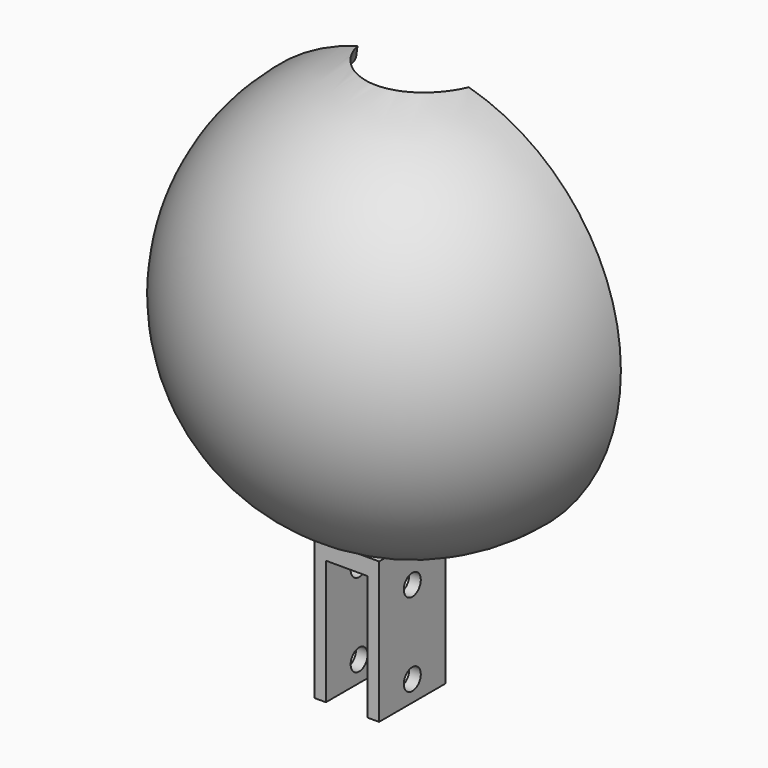
from build123d import *

# Parameters (mm, degrees)
CYLINDER_R               = 14
CYLINDER_DEPTH           = 40
CYLINDER_PLACEMENT_ANGLE = 330
REVOLUTION_ANGLE         = 180
FILLET_R                 = 1
PAD_DEPTH                = 20
SKETCH002_R              = 2.55
POCKET_DEPTH             = 20


with BuildPart() as cylinder:
    # Cylinder → Cylinder (new body)
    with BuildSketch(Plane.XY):
        Circle(CYLINDER_R)
    extrude(amount=CYLINDER_DEPTH)


with BuildPart() as cylinder_1:
    # Cylinder placement: moved
    add(cylinder.part.moved(Location((0, -14.794229, 14.375644))).rotate(Axis((0, -14.794229, 14.375644), (1, 0, 0)), CYLINDER_PLACEMENT_ANGLE))


with BuildPart() as cut:
    # Sketch → Revolution (revolve)
    with BuildSketch(Plane.XZ):
        with BuildLine():
            ThreePointArc((47.2, 0), (36.925607, 29.399652), (10.575443, 46))
            add(Edge.make_bspline(
                [(10.575443, 46), (6.278031, 48.085027), (0, 35)],
                knots=[6.228041, 6.228041, 6.228041, 7.044897, 7.044897, 7.044897], degree=2, weights=[1, 0.917746, 1]))
            add(Edge.make_bspline(
                [(0, 35), (-6.183943, 47.364383), (-10.575443, 46)],
                knots=[5.520934, 5.520934, 5.520934, 6.302025, 6.302025, 6.302025], degree=2, weights=[1, 0.924702, 1]))
            ThreePointArc((-10.575443, 46), (-36.925607, 29.399652), (-47.2, 0))
            Line((-47.2, 0), (-50, 0))
            ThreePointArc((-50, 0), (0, 50), (50, 0))
            Line((50, 0), (47.2, 0))
        make_face()
    revolve(axis=Axis((0, 0, 0), (1, 0, 0)), revolution_arc=REVOLUTION_ANGLE)

    # Fillet
    fillet_edges = [cut.edges().sort_by_distance(p)[0] for p in [
        (-36.925607, 0, -29.399652),
        (36.925607, 0, -29.399652),
        (4.073647, 0, 42.082255),
        (4.073647, 0, -42.082255),
    ]]
    fillet(fillet_edges, radius=FILLET_R)

    # Sketch001 (on Face8 of Fillet) → Pad (new body)
    with BuildSketch(Plane(origin=(0, 0, 0), x_dir=(1, 0, 0), z_dir=(0, 1, 0))):
        Polygon((-5, 50), (5, 50), (5, 80), (7.8, 80), (7.8, 46), (-7.8, 46), (-7.8, 80), (-5, 80), align=None)
    extrude(amount=-PAD_DEPTH)

    # Sketch002 (on Face24 of Pad) → Pocket (cut)
    with BuildSketch(Plane(origin=(-7.8, 0, 0), x_dir=(0, 0, -1), z_dir=(-1, 0, 0))):
        with Locations((55, 10)):
            Circle(SKETCH002_R)
        with Locations((75, 10)):
            Circle(SKETCH002_R)
    extrude(amount=-POCKET_DEPTH, mode=Mode.SUBTRACT)

    # Cut: cut Cylinder
    add(cylinder_1.part, mode=Mode.SUBTRACT)


solid = cut.part
